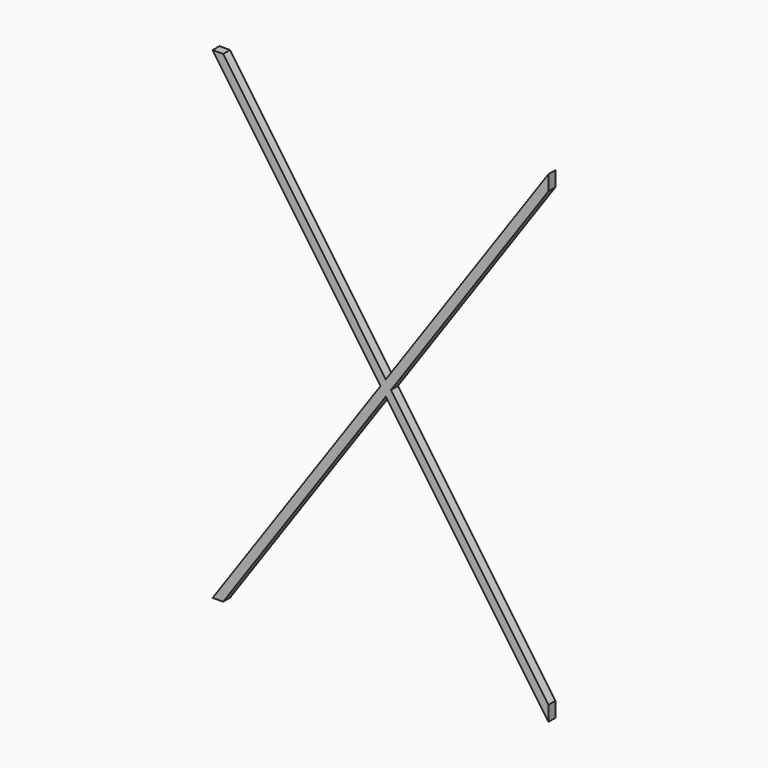
from build123d import *

# Parameters (mm, degrees)
F1_DEPTH = 3.175


with BuildPart() as f1:
    # F0 (on Front) → F1 (new body)
    with BuildSketch(Plane.XZ):
        Polygon((-119.95591, 177.8), (-123.825, 177.8), (-61.9125, 88.9), (-59.977955, 91.677808), align=None)
        Polygon((-59.977955, 86.122192), (0, 0), (0, 5.555616), (-58.04341, 88.9), align=None)
        Polygon((-123.825, 0), (-119.95591, 0), (-59.977955, 86.122192), (-58.04341, 88.9), (0, 172.244384), (0, 177.8), (-59.977955, 91.677808), (-61.9125, 88.9), align=None)
    extrude(amount=F1_DEPTH)


solid = f1.part
